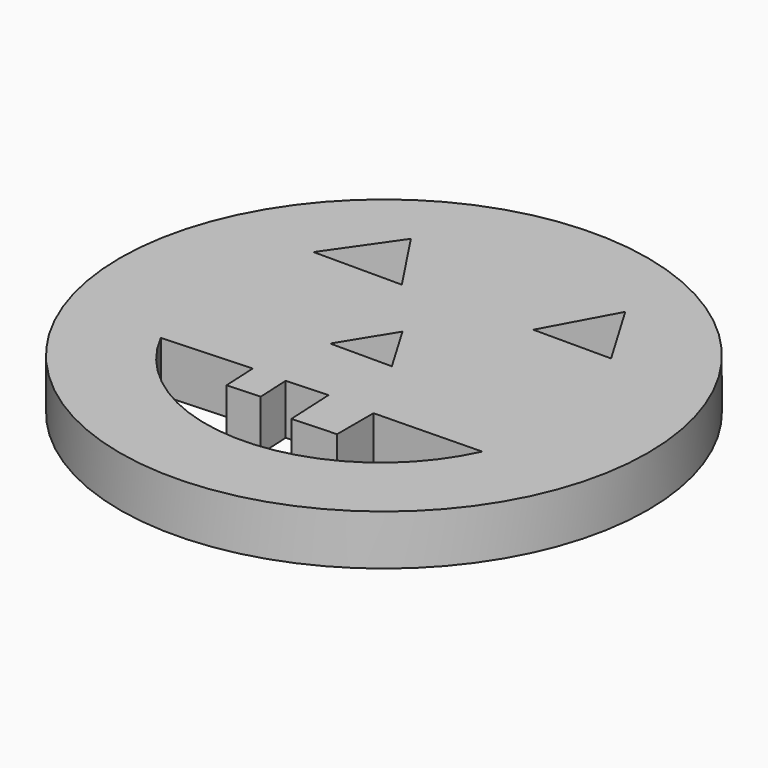
from build123d import *

# Parameters (mm, degrees)
F0_R      = 66.728095
F1_DEPTH  = 12.7
F3_DEPTH  = 25.4
F5_DEPTH  = 25.4
F7_DEPTH  = 12.7
F9_DEPTH  = 25.4
F11_DEPTH = 6.35


with BuildPart() as f1:
    # F0 (on Top) → F1 (new body)
    with BuildSketch(Plane.XY):
        with Locations((-8.514826, -3.963798)):
            Circle(F0_R)
    extrude(amount=F1_DEPTH)

    # F2 (on face) → F3 (cut)
    with BuildSketch(Plane.XY.offset(12.7)):
        Polygon((-24.658037, 21.874294), (-35.525352, 38.316716), (-46.980087, 21.874294), align=None)
    extrude(amount=-F3_DEPTH, mode=Mode.SUBTRACT)

    # F4 (on face) → F5 (cut)
    with BuildSketch(Plane.XY.offset(12.7)):
        Polygon((27.306164, 23.048753), (17.029652, 40.372021), (7.633982, 23.048753), align=None)
    extrude(amount=-F5_DEPTH, mode=Mode.SUBTRACT)

    # F6 (on face) → F7 (cut)
    with BuildSketch(Plane.XY.offset(12.7)):
        with BuildLine():
            Line((-25.250863, -24.516826), (-47.612483, -25.613372))
            ThreePointArc((-47.612483, -25.613372), (-7.129461, -49.828593), (32.297611, -23.929598))
            Line((32.297611, -23.929598), (5.287732, -24.516826))
            Line((5.287732, -24.516826), (5.287732, -36.022174))
            Line((5.287732, -36.022174), (-5.854146, -36.568538))
            Line((-5.854146, -36.568538), (-6.470212, -24.005227))
            Line((-6.470212, -24.005227), (-16.903157, -24.516826))
            Line((-16.903157, -24.516826), (-16.49087, -32.924499))
            Line((-16.49087, -32.924499), (-24.818552, -33.332863))
            Line((-24.818552, -33.332863), (-25.250863, -24.516826))
        make_face()
    extrude(amount=-F7_DEPTH, mode=Mode.SUBTRACT)

    # F8 (on face) → F9 (cut)
    with BuildSketch(Plane.XY.offset(12.7)):
        Polygon((-4.40422, -6.606331), (-12.038202, 6.312716), (-19.965798, -6.606331), align=None)
    extrude(amount=-F9_DEPTH, mode=Mode.SUBTRACT)

    # F10 (on Top) → F11 (join)
    with BuildSketch(Plane.XY):
        Polygon((-23.02446, 68.209961), (-25.039101, 60.43921), (0, 60.43921), (-3.453669, 68.209961), align=None)
    extrude(amount=F11_DEPTH)


solid = f1.part
